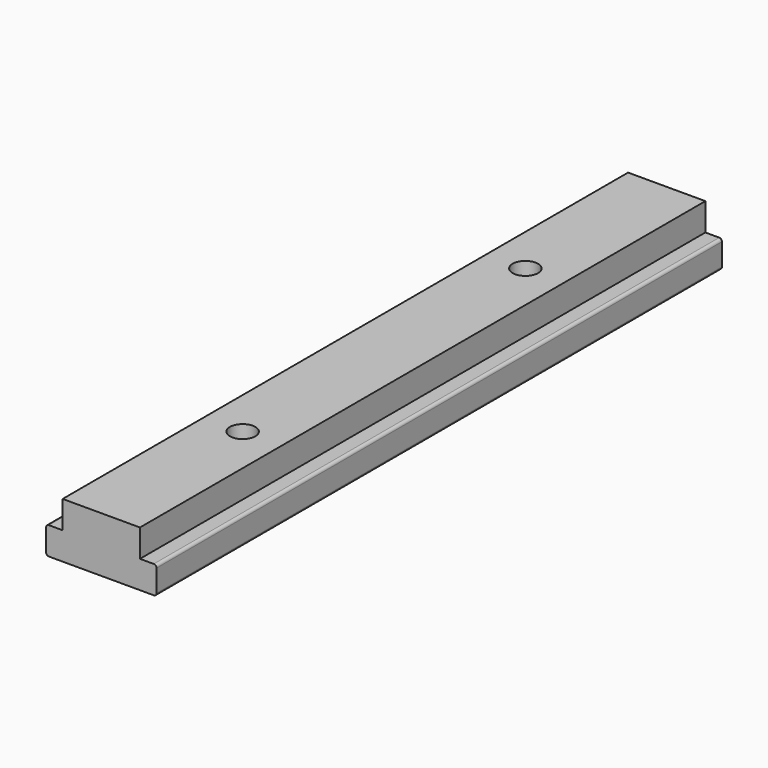
from build123d import *

# Parameters (mm, degrees)
F1_DEPTH       = 101.6
F3_R           = 0.396875
F4_D           = 3.6576
F4_CSINK_D     = 7.7978
F4_CSINK_ANGLE = 82


with BuildPart() as f1:
    # F0 (on Front) → F1 (new body)
    with BuildSketch(Plane.XZ):
        Polygon((0, 3.96875), (0, 0), (15.875, 0), (15.875, 3.96875), (13.49375, 3.96875), (13.49375, 7.9375), (2.38125, 7.9375), (2.38125, 3.96875), align=None)
    extrude(amount=F1_DEPTH)

    # F3
    f3_edges = [f1.edges().sort_by_distance(p)[0] for p in [
        (15.875, -50.8, 3.96875),
        (15.875, -50.8, 0),
        (0, -50.8, 3.96875),
        (0, -50.8, 0),
    ]]
    fillet(f3_edges, radius=F3_R)

    # F4 (through all)
    with Locations(Plane(origin=(0, 0, 0), x_dir=(1, 0, 0), z_dir=(0, 0, -1))):
        with Locations((7.9375, 76.2), (7.9375, 25.4)):
            CounterSinkHole(F4_D / 2, F4_CSINK_D / 2, counter_sink_angle=F4_CSINK_ANGLE)


solid = f1.part
